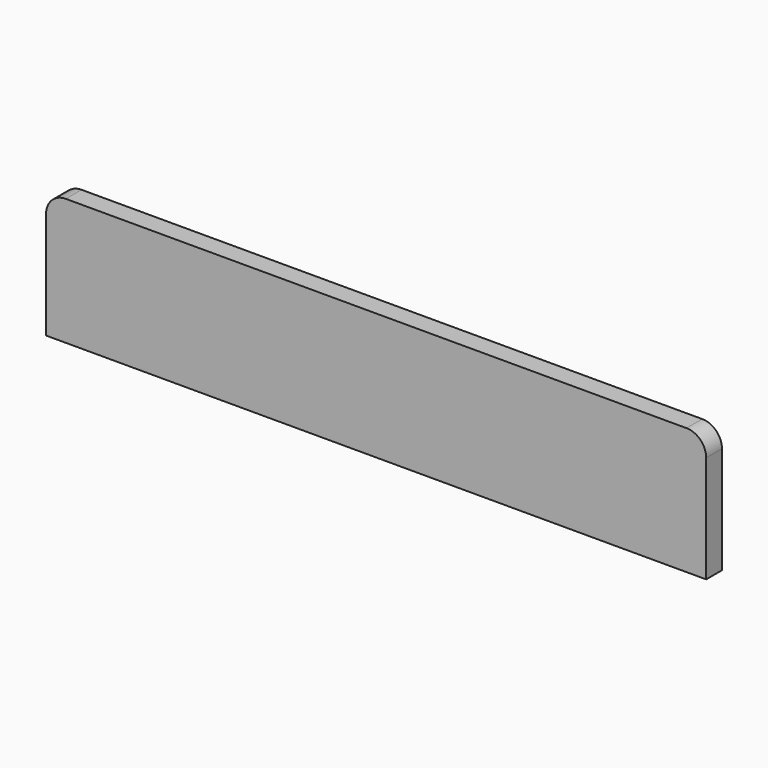
from build123d import *

# Parameters (mm, degrees)
F1_DEPTH = 2
F3_DEPTH = 1
F4_R     = 1.753363
F4_R_2   = 1.459412
F5_DEPTH = 0.7
F6_R     = 1.487694
F7_DEPTH = 1


with BuildPart() as f1:
    # F0 (on Front) → F1 (new body)
    with BuildSketch(Plane.XZ):
        with BuildLine():
            Line((-67.99145, 143.969123), (-67.99145, 133.084092))
            Line((-67.99145, 133.084092), (-0.899351, 133.084092))
            Line((-0.899351, 133.084092), (-0.899351, 143.969123))
            ThreePointArc((-0.899351, 143.969123), (-1.485138, 145.383336), (-2.899351, 145.969123))
            Line((-2.899351, 145.969123), (-65.99145, 145.969123))
            ThreePointArc((-65.99145, 145.969123), (-67.405664, 145.383336), (-67.99145, 143.969123))
        make_face()
    extrude(amount=-F1_DEPTH)

    # F2 (on face) → F3 (cut)
    with BuildSketch(Plane(origin=(0, 2, 0), x_dir=(-1, 0, 0), z_dir=(0, 1, 0))):
        with BuildLine():
            ThreePointArc((12.911827, 137.269123), (13.058274, 136.915569), (13.411827, 136.769123))
            Line((13.411827, 136.769123), (18.411827, 136.769123))
            ThreePointArc((18.411827, 136.769123), (18.765381, 136.915569), (18.911827, 137.269123))
            Line((18.911827, 137.269123), (18.911827, 142.269123))
            ThreePointArc((18.911827, 142.269123), (18.765381, 142.622676), (18.411827, 142.769123))
            Line((18.411827, 142.769123), (13.411827, 142.769123))
            ThreePointArc((13.411827, 142.769123), (13.058274, 142.622676), (12.911827, 142.269123))
            Line((12.911827, 142.269123), (12.911827, 137.269123))
        make_face()
        with BuildLine():
            ThreePointArc((12.911827, 137.269123), (13.058274, 136.915569), (13.411827, 136.769123))
            Line((13.411827, 136.769123), (18.411827, 136.769123))
            ThreePointArc((18.411827, 136.769123), (18.765381, 136.915569), (18.911827, 137.269123))
            Line((18.911827, 137.269123), (18.911827, 142.269123))
            ThreePointArc((18.911827, 142.269123), (18.765381, 142.622676), (18.411827, 142.769123))
            Line((18.411827, 142.769123), (13.411827, 142.769123))
            ThreePointArc((13.411827, 142.769123), (13.058274, 142.622676), (12.911827, 142.269123))
            Line((12.911827, 142.269123), (12.911827, 137.269123))
        make_face()
        with BuildLine():
            ThreePointArc((6.619622, 142.111984), (6.224257, 142.305902), (5.828891, 142.111984))
            Line((5.828891, 142.111984), (5.104562, 141.176371))
            ThreePointArc((5.104562, 141.176371), (5.026809, 141.032026), (4.999928, 140.870289))
            Line((4.999928, 140.870289), (4.999928, 138.712141))
            ThreePointArc((4.999928, 138.712141), (5.026809, 138.550405), (5.104562, 138.406059))
            Line((5.104562, 138.406059), (5.828891, 137.470446))
            ThreePointArc((5.828891, 137.470446), (6.224257, 137.276528), (6.619622, 137.470446))
            Line((6.619622, 137.470446), (7.343951, 138.406059))
            ThreePointArc((7.343951, 138.406059), (7.421704, 138.550405), (7.448586, 138.712141))
            Line((7.448586, 138.712141), (7.448586, 140.870289))
            ThreePointArc((7.448586, 140.870289), (7.421704, 141.032026), (7.343951, 141.176371))
            Line((7.343951, 141.176371), (6.619622, 142.111984))
        make_face()
    extrude(amount=-F3_DEPTH, mode=Mode.SUBTRACT)


with BuildPart() as f5:
    # F4 (on face) → F5 (new body)
    with BuildSketch(Plane(origin=(0, 1, 0), x_dir=(-1, 0, 0), z_dir=(0, 1, 0))):
        with Locations((15.884116, 139.842048)):
            Circle(F4_R)
        with Locations((15.884116, 139.842048)):
            Circle(F4_R_2, mode=Mode.SUBTRACT)
    extrude(amount=F5_DEPTH)


with BuildPart() as f7:
    # F6 (on face) → F7 (new body)
    with BuildSketch(Plane(origin=(0, 1, 0), x_dir=(-1, 0, 0), z_dir=(0, 1, 0))):
        with Locations((15.902845, 139.735669)):
            Circle(F6_R)
    extrude(amount=F7_DEPTH)


solid = Compound([f1.part, f5.part, f7.part])
